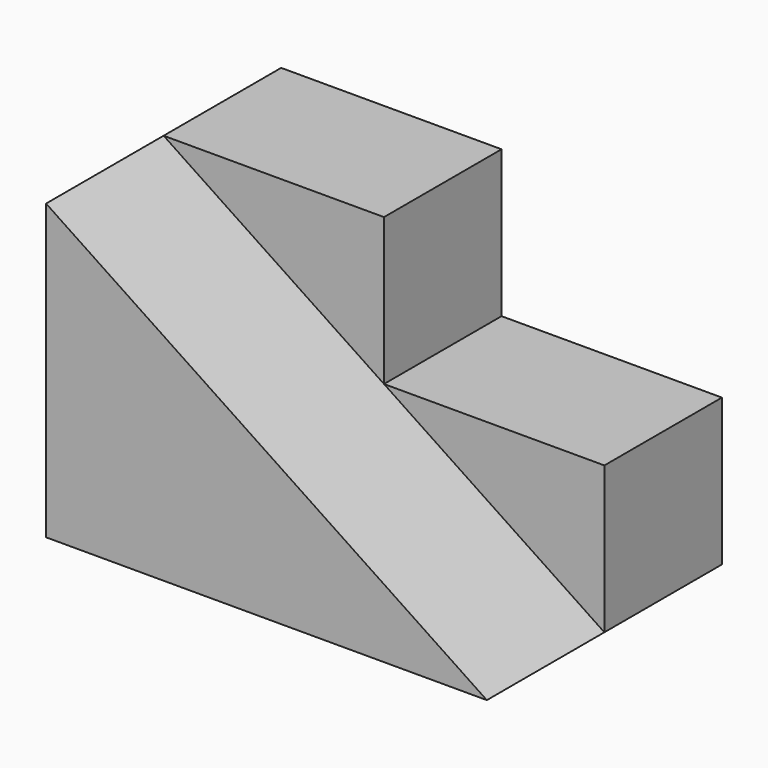
from build123d import *

# Parameters (mm, degrees)
F0_W     = 19.05
F0_H     = 12.7
F1_DEPTH = 12.7
F3_DEPTH = 12.7


with BuildPart() as f1:
    # F0 (on Front) → F1 (new body)
    with BuildSketch(Plane.XZ):
        with Locations((-36.200122, 14.246385)):
            Rectangle(F0_W, F0_H)
        Polygon((-26.675122, 7.896385), (-45.725122, 7.896385), (-45.725122, -4.803615), (-7.625122, -4.803615), (-7.625122, 7.896385), align=None)
    extrude(amount=F1_DEPTH)

    # F2 (on face) → F3 (join)
    with BuildSketch(Plane.XZ.offset(12.7)):
        Polygon((-26.675122, 7.896385), (-45.725122, 20.596385), (-45.725122, 18.419569), (-45.725122, -4.803615), (-7.625122, -4.803615), align=None)
    extrude(amount=F3_DEPTH)


solid = f1.part
